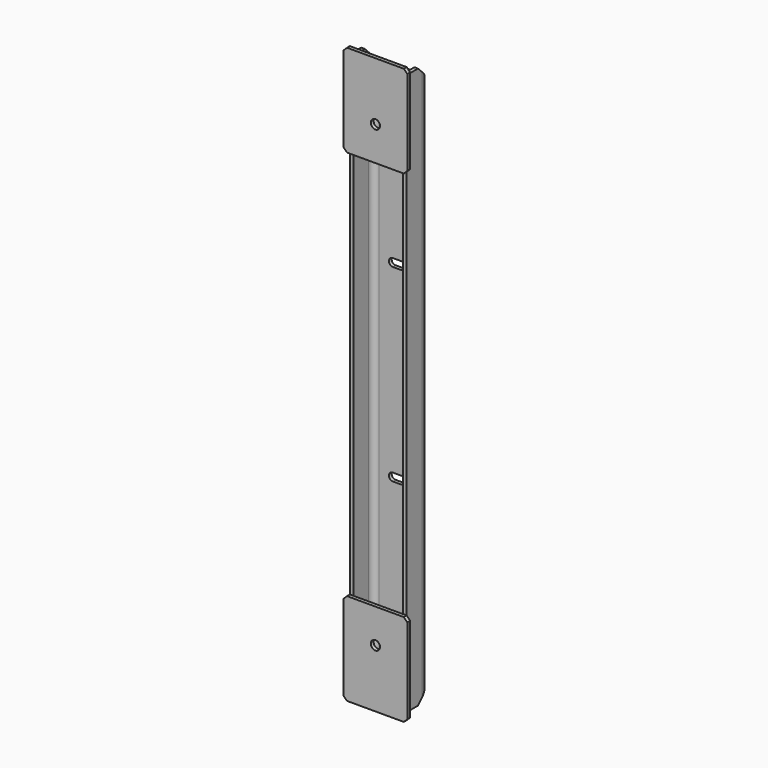
from build123d import *

# Parameters (mm, degrees)
F1_DEPTH  = 395
F2_R      = 20
F3_DEPTH  = 40.001
F4_W      = 5
F4_H      = 120
F5_DEPTH  = 5
F6_SIZE   = 5
F7_R      = 6.5
F8_DEPTH  = 45.001
F11_DEPTH = 85.001


with BuildPart() as f1:
    # F0 (on Top) → F1 (new body, symmetric)
    with BuildSketch(Plane.XY):
        with BuildLine():
            Line((27, 40), (-27, 40))
            ThreePointArc((-27, 40), (-36.1923881554, 36.1923881554), (-40, 27))
            Line((-40, 27), (-40, 0))
            Line((-40, 0), (-35, 0))
            Line((-35, 0), (-35, 27))
            ThreePointArc((-35, 27), (-32.6568542495, 32.6568542495), (-27, 35))
            Line((-27, 35), (27, 35))
            ThreePointArc((27, 35), (32.6568542495, 32.6568542495), (35, 27))
            Line((35, 27), (35, 0))
            Line((35, 0), (40, 0))
            Line((40, 0), (40, 27))
            ThreePointArc((40, 27), (36.1923881554, 36.1923881554), (27, 40))
        make_face()
    extrude(amount=F1_DEPTH, both=True)

    # F2 (on face) → F3 (cut, through all)
    with BuildSketch(Plane(origin=(0, 40, 0), x_dir=(-1, 0, 0), z_dir=(0, 1, 0))):
        with Locations((0, 323)):
            Circle(F2_R)
        with BuildLine():
            Line((-7.5, 127.5), (7.5, 127.5))
            ThreePointArc((7.5, 127.5), (13, 133), (7.5, 138.5))
            Line((7.5, 138.5), (-7.5, 138.5))
            ThreePointArc((-7.5, 138.5), (-13, 133), (-7.5, 127.5))
        make_face()
        with BuildLine():
            ThreePointArc((-7.5, -127.5), (-13, -133), (-7.5, -138.5))
            Line((-7.5, -138.5), (7.5, -138.5))
            ThreePointArc((7.5, -138.5), (13, -133), (7.5, -127.5))
            Line((7.5, -127.5), (-7.5, -127.5))
        make_face()
        with Locations((0, -323)):
            Circle(F2_R)
    extrude(amount=-F3_DEPTH, mode=Mode.SUBTRACT)

    # F4 (on face) → F5 (join)
    with BuildSketch(Plane.XZ):
        Polygon((45, 405), (-45, 405), (-45, 275), (-40, 275), (-40, 395), (-35, 395), (-35, 275), (45, 275), align=None)
        with Locations((-37.5, 335)):
            Rectangle(F4_W, F4_H)
    extrude(amount=F5_DEPTH)

    # F6
    f6_edges = [f1.edges().sort_by_distance(p)[0] for p in [
        (45, -2.5, 275),
        (-45, -2.5, 275),
        (-45, -2.5, 405),
        (45, -2.5, 405),
    ]]
    chamfer(f6_edges, length=F6_SIZE)

    # F7 (on face) → F8 (cut, through all)
    with BuildSketch(Plane.XZ.offset(5)):
        with Locations((0, 323)):
            Circle(F7_R)
    extrude(amount=-F8_DEPTH, mode=Mode.SUBTRACT)

    # F9: F1 across plane


with BuildPart() as f1_1:
    add(f1.part)
    add(f1.part.mirror(Plane.XY))

    # F10 (on face) → F11 (cut, through all)
    with BuildSketch(Plane.YZ.offset(40)):
        Polygon((27, 388), (27, 395), (20, 395), align=None)
        Polygon((40, 375), (40, 395), (27, 395), (27, 388), align=None)
        Polygon((27, -395), (27, -388), (20, -395), align=None)
        Polygon((40, -375), (27, -388), (27, -395), (40, -395), align=None)
    extrude(amount=-F11_DEPTH, mode=Mode.SUBTRACT)


solid = f1_1.part
